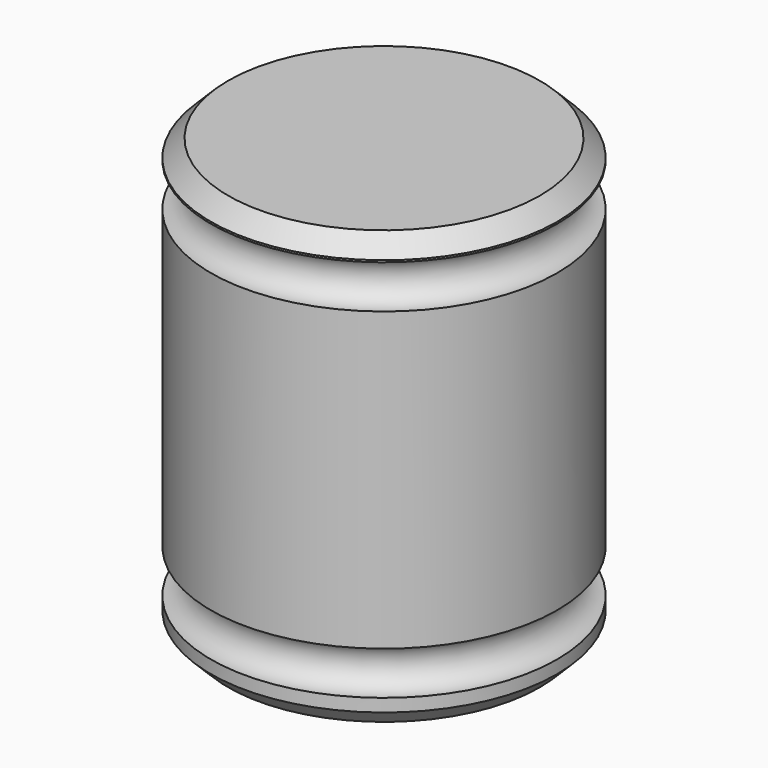
from build123d import *

# Parameters (mm, degrees)
F2_SIZE = 5.08


with BuildPart() as f1:
    # F0 (on Front) → F1 (revolve)
    with BuildSketch(Plane.XZ):
        with BuildLine():
            Line((-50.8, 0), (0, 0))
            Line((0, 0), (0, 8.8657535776))
            ThreePointArc((0, 8.8657535776), (-6.35, 15.2157535776), (0, 21.5657535776))
            Line((0, 21.5657535776), (0, 108.6713852525))
            ThreePointArc((0, 108.6713852525), (-6.35, 115.0213852525), (0, 121.3713852525))
            Line((0, 121.3713852525), (0, 127))
            Line((0, 127), (-50.8, 127))
            Line((-50.8, 127), (-50.8, 0))
        make_face()
    revolve(axis=Axis((-50.8, 0, 63.5), (0, 0, 1)))

    # F2
    f2_edges = [f1.edges().sort_by_distance(p)[0] for p in [
        (-101.6, 0, 127),
        (-101.6, 0, 0),
    ]]
    chamfer(f2_edges, length=F2_SIZE)


solid = f1.part
